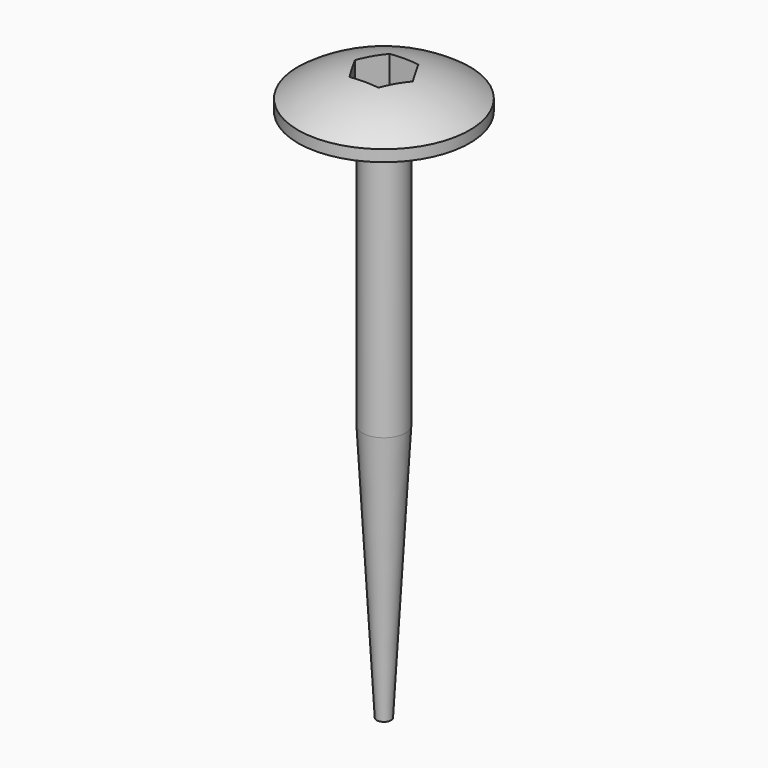
from build123d import *

# Parameters (mm, degrees)
F2_SIZE2 = 1
F2_SIZE  = 18
F4_DEPTH = 2.5


with BuildPart() as f1:
    # F0 (on Front) → F1 (revolve)
    with BuildSketch(Plane.XZ):
        with BuildLine():
            Line((0, -40), (0, 0))
            ThreePointArc((0, 0), (-3.146824, -0.486346), (-6, -1.9))
            Line((-6, -1.9), (-6, -2.7))
            Line((-6, -2.7), (-1.5, -2.7))
            Line((-1.5, -2.7), (-1.5, -40))
            Line((-1.5, -40), (0, -40))
        make_face()
    revolve(axis=Axis((0, 0, -20), (0, 0, -1)))

    # F2
    f2_edges = [f1.edges().sort_by_distance(p)[0] for p in [
        (1.5, 0, -40),
    ]]
    chamfer(f2_edges, length=F2_SIZE, length2=F2_SIZE2)

    # F3 (on Top) → F4 (cut)
    with BuildSketch(Plane.XY):
        Polygon((1.010363, -1.75), (2.020726, 0), (1.010363, 1.75), (-1.010363, 1.75), (-2.020726, 0), (-1.010363, -1.75), align=None)
    extrude(amount=-F4_DEPTH, mode=Mode.SUBTRACT)


solid = f1.part
